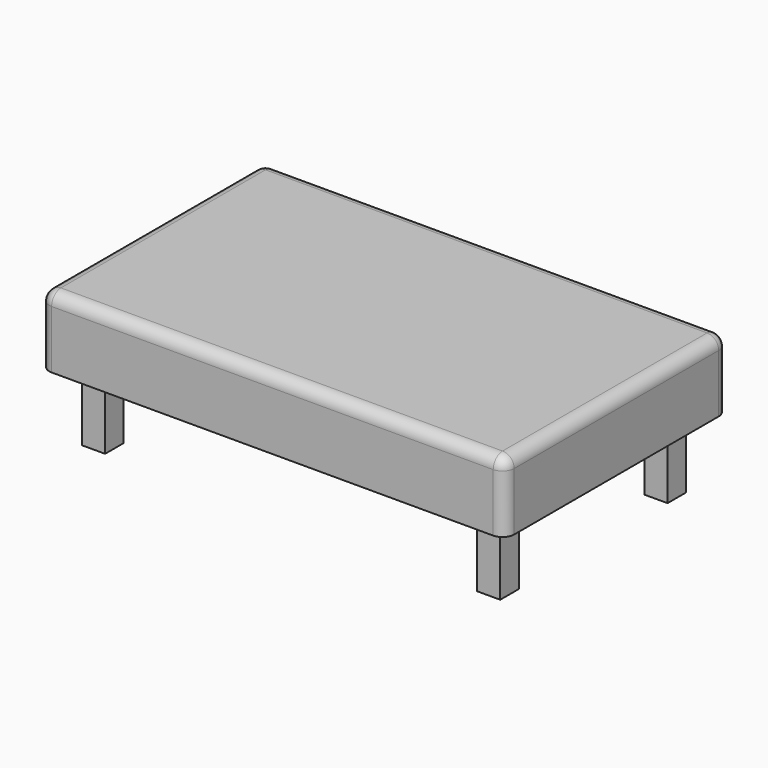
from build123d import *

# Parameters (mm, degrees)
F0_W     = 2000
F0_H     = 1200
F1_DEPTH = 300
F2_R     = 50
F3_W     = 100
F3_H     = 100
F4_DEPTH = 300


with BuildPart() as f1:
    # F0 (on Top) → F1 (new body)
    with BuildSketch(Plane.XY):
        Rectangle(F0_W, F0_H)
    extrude(amount=F1_DEPTH)

    # F2
    f2_edges = [f1.edges().sort_by_distance(p)[0] for p in [
        (1000, 0, 300),
        (0, 600, 300),
        (-1000, 0, 300),
        (0, -600, 300),
        (-1000, -600, 150),
        (1000, -600, 150),
        (1000, 600, 150),
        (-1000, 600, 150),
    ]]
    fillet(f2_edges, radius=F2_R)

    # F3 (on face) → F4 (join)
    with BuildSketch(Plane(origin=(0, 0, 0), x_dir=(1, 0, 0), z_dir=(0, 0, -1))):
        with Locations((-850, 450)):
            Rectangle(F3_W, F3_H)
        with Locations((850, 450)):
            Rectangle(F3_W, F3_H)
        with Locations((-850, -450)):
            Rectangle(F3_W, F3_H)
        with Locations((850, -450)):
            Rectangle(F3_W, F3_H)
    extrude(amount=F4_DEPTH)


solid = f1.part
